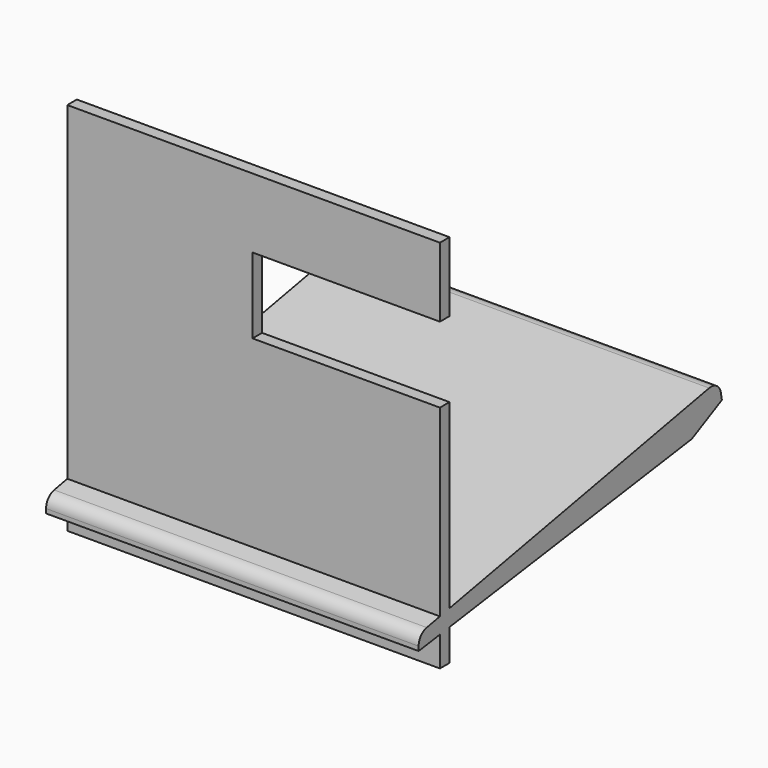
from build123d import *

# Parameters (mm, degrees)
F0_W     = 149.531708
F0_H     = 150.427163
F1_DEPTH = 4.8
F2_W     = 75.19953
F2_H     = 30.355446
F3_DEPTH = 33
F5_DEPTH = 149.5


with BuildPart() as f1:
    # F0 (on Front) → F1 (new body)
    with BuildSketch(Plane.XZ):
        with Locations((0.433676, -0.481956)):
            Rectangle(F0_W, F0_H)
    extrude(amount=F1_DEPTH)

    # F2 (on face) → F3 (cut)
    with BuildSketch(Plane.XZ.offset(4.8)):
        with Locations((37.599765, 31.643964)):
            Rectangle(F2_W, F2_H)
    extrude(amount=-F3_DEPTH, mode=Mode.SUBTRACT)

    # F4 (on face) → F5 (join)
    with BuildSketch(Plane.YZ.offset(75.19953)):
        with BuildLine():
            Line((0, -56.370427), (0, -63.030267))
            Line((0, -63.030267), (121.53174, -45.979694))
            Line((121.53174, -45.979694), (136.657913, -38.343303))
            Line((136.657913, -38.343303), (136.117308, -35.507916))
            ThreePointArc((136.117308, -35.507916), (134.016588, -32.309223), (130.269337, -31.53284))
            Line((130.269337, -31.53284), (0, -56.370427))
        make_face()
        with BuildLine():
            Line((-15.475349, -63.457762), (-15.475349, -65.201417))
            Line((-15.475349, -65.201417), (-4.8, -63.703694))
            Line((-4.8, -63.703694), (-4.8, -57.285611))
            Line((-4.8, -57.285611), (-11.411796, -58.546238))
            ThreePointArc((-11.411796, -58.546238), (-14.327766, -60.270462), (-15.475349, -63.457762))
        make_face()
    extrude(amount=-F5_DEPTH)


solid = f1.part
